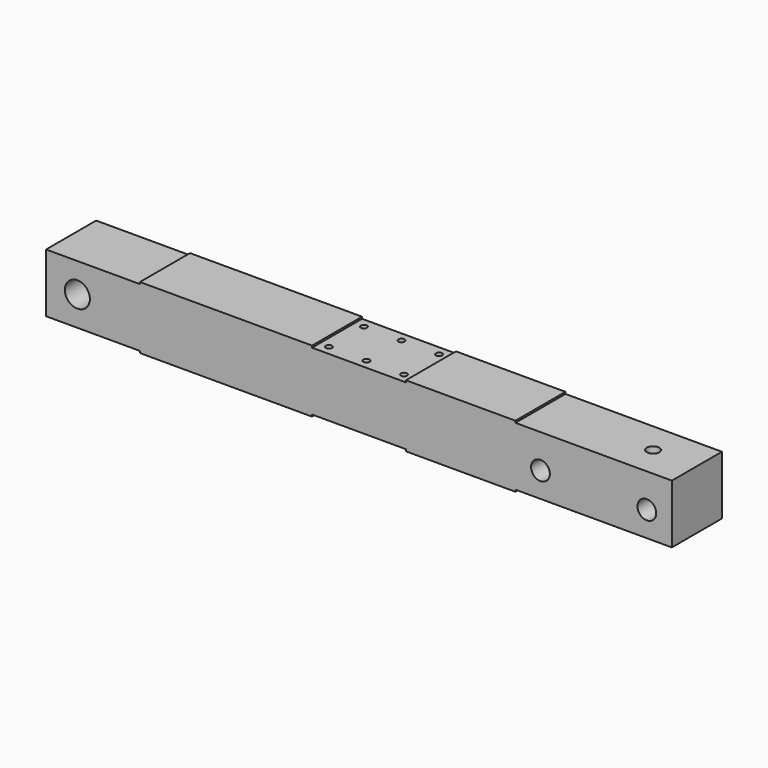
from build123d import *

# Parameters (mm, degrees)
F0_R     = 5
F0_R_2   = 10
F2_DEPTH = 100
F1_R     = 15
F1_R_2   = 20
F3_DEPTH = 50


with BuildPart() as f2:
    # F0 (on Top) → F2 (new body, symmetric)
    with BuildSketch(Plane.XY):
        Polygon((75, 50), (-75, 50), (-500, 50), (-500, -50), (-75, -50), (75, -50), (500, -50), (500, 50), align=None)
        with Locations((-60, -35)):
            Circle(F0_R, mode=Mode.SUBTRACT)
        with Locations((0, -35)):
            Circle(F0_R, mode=Mode.SUBTRACT)
        with Locations((60, -35)):
            Circle(F0_R, mode=Mode.SUBTRACT)
        with Locations((-60, 35)):
            Circle(F0_R, mode=Mode.SUBTRACT)
        with Locations((430, 0)):
            Circle(F0_R_2, mode=Mode.SUBTRACT)
        with Locations((0, 35)):
            Circle(F0_R, mode=Mode.SUBTRACT)
        with Locations((60, 35)):
            Circle(F0_R, mode=Mode.SUBTRACT)
    extrude(amount=F2_DEPTH, both=True)

    # F1 (on Front) → F3 (intersect, symmetric)
    with BuildSketch(Plane.XZ):
        Polygon((75, 47), (-75, 47), (-75, 50), (-350, 50), (-350, 47), (-500, 47), (-500, -47), (-350, -47), (-350, -50), (-75, -50), (-75, -47), (75, -47), (75, -50), (250, -50), (250, -47), (500, -47), (500, 47), (250, 47), (250, 50), (75, 50), align=None)
        with Locations((290, -7)):
            Circle(F1_R, mode=Mode.SUBTRACT)
        with Locations((460, -7)):
            Circle(F1_R, mode=Mode.SUBTRACT)
        with Locations((-450, 0)):
            Circle(F1_R_2, mode=Mode.SUBTRACT)
    extrude(amount=F3_DEPTH, both=True, mode=Mode.INTERSECT)


solid = f2.part
